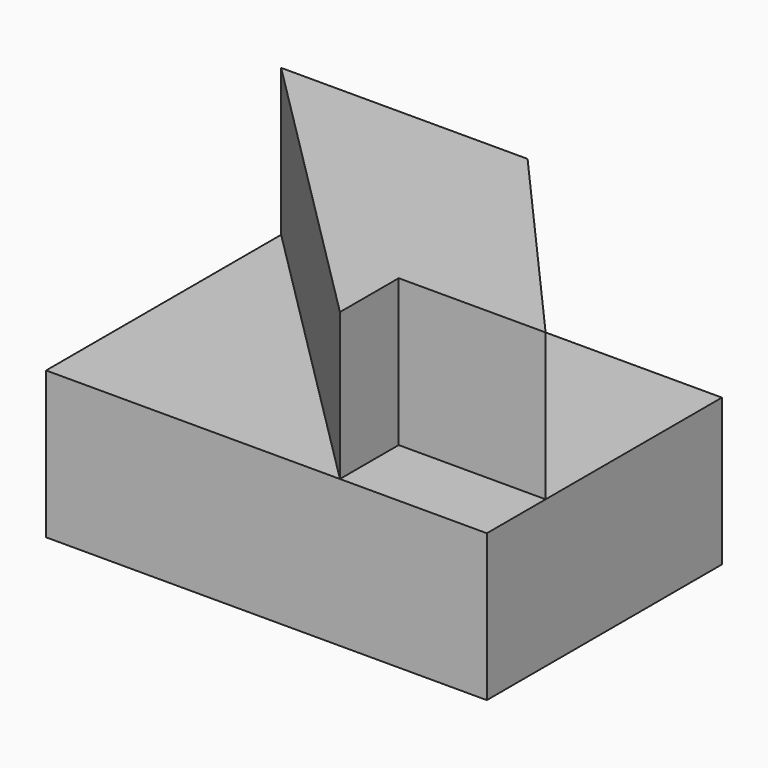
from build123d import *

# Parameters (mm, degrees)
F0_W     = 38.1
F0_H     = 25.4
F1_DEPTH = 25.4
F2_W     = 12.7
F2_H     = 12.7
F3_DEPTH = 6.35
F5_DEPTH = 12.7


with BuildPart() as f1:
    # F0 (on Front) → F1 (new body)
    with BuildSketch(Plane.XZ):
        with Locations((19.05, 12.7)):
            Rectangle(F0_W, F0_H)
    extrude(amount=F1_DEPTH)

    # F2 (on face) → F3 (cut)
    with BuildSketch(Plane.XZ.offset(25.4)):
        with Locations((31.75, 19.05)):
            Rectangle(F2_W, F2_H)
    extrude(amount=-F3_DEPTH, mode=Mode.SUBTRACT)

    # F4 (on face) → F5 (cut, symmetric)
    with BuildSketch(Plane.XY.offset(25.4)):
        Polygon((25.4, -25.4), (0, 0), (0, -25.4), align=None)
        Polygon((38.1, 0), (21.299479, 0), (38.1, -19.05), align=None)
    extrude(amount=F5_DEPTH, both=True, mode=Mode.SUBTRACT)


solid = f1.part
